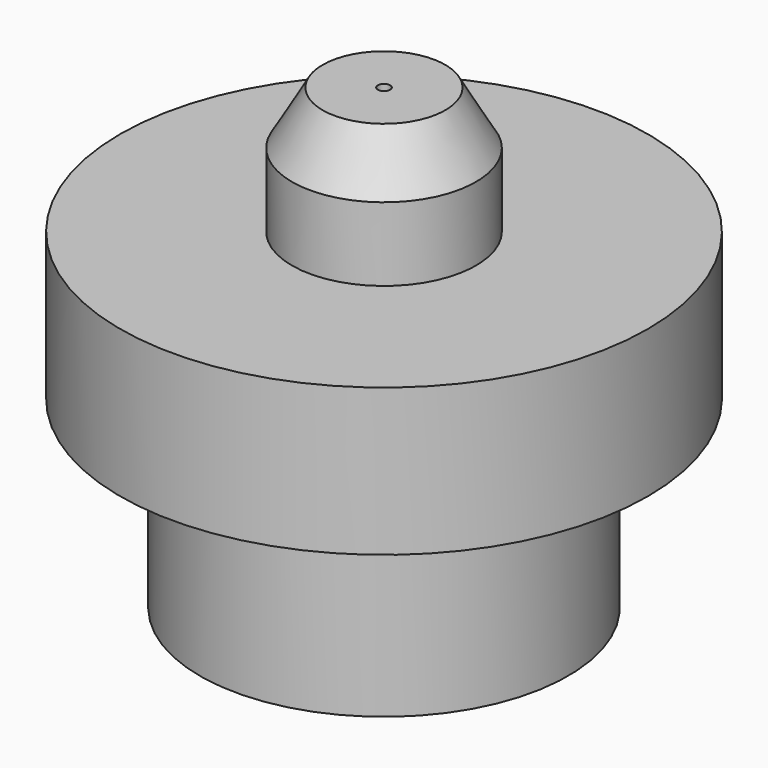
from build123d import *

# Parameters (mm, degrees)
F2_R     = 0.5
F3_DEPTH = 37.331127


with BuildPart() as f1:
    # F0 (on Front) → F1 (revolve)
    with BuildSketch(Plane.XZ):
        Polygon((0, 0), (0, 37.330127), (-5, 37.330127), (-7.5, 33), (-7.5, 27), (-21.5, 27), (-21.5, 15), (-15, 15), (-15, 0), align=None)
    revolve(axis=Axis((0, 0, 47.314812), (0, 0, 1)))

    # F2 (on face) → F3 (cut, through all)
    with BuildSketch(Plane.XY.offset(37.330127)):
        Circle(F2_R)
    extrude(amount=-F3_DEPTH, mode=Mode.SUBTRACT)


solid = f1.part
